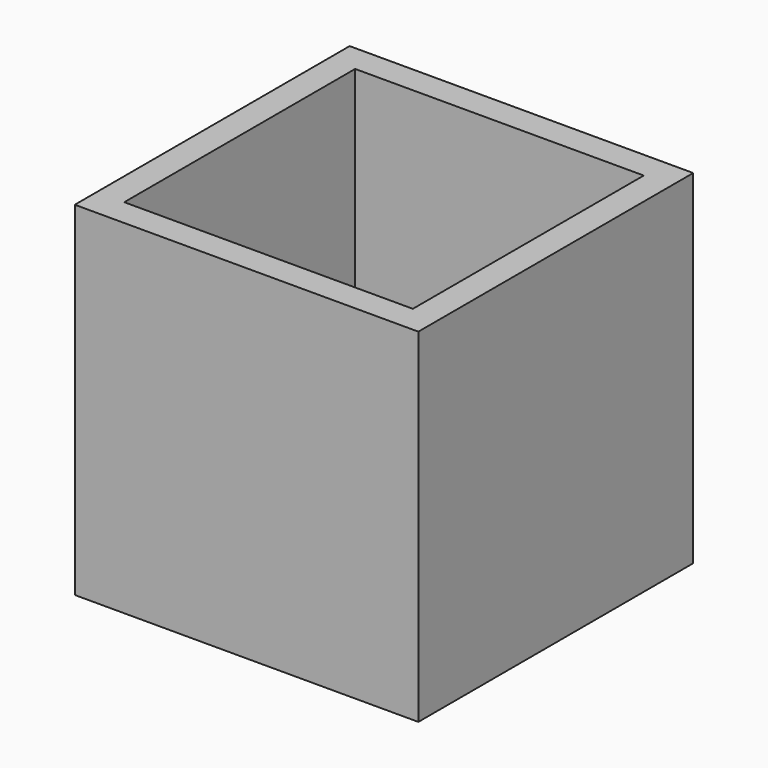
from build123d import *

# Parameters (mm, degrees)
F0_W     = 20
F0_H     = 20
F1_DEPTH = 20
F2_T     = -1.6


with BuildPart() as f1:
    # F0 (on Top) → F1 (new body)
    with BuildSketch(Plane.XY):
        Rectangle(F0_W, F0_H)
    extrude(amount=F1_DEPTH)

    # F2
    f2_openings = [f1.faces().sort_by_distance(p)[0] for p in [
        (0, 0, 20),
        (0, 0, 0),
    ]]
    offset(amount=F2_T, openings=f2_openings)


solid = f1.part
